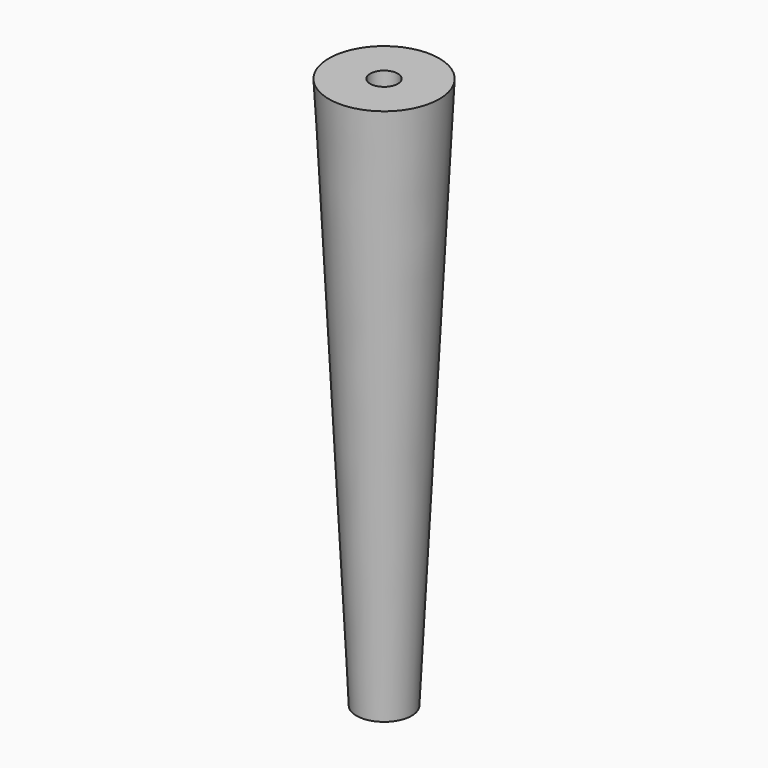
from build123d import *

# Parameters (mm, degrees)
CYLINDER_R     = 1
CYLINDER_DEPTH = 10


with BuildPart() as cylinder:
    # Cylinder → Cylinder (new body)
    with BuildSketch(Plane.XY.offset(31)):
        Circle(CYLINDER_R)
    extrude(amount=CYLINDER_DEPTH)


with BuildPart() as obj1:
    # Cone → Cone (revolve)
    with BuildSketch(Plane.XZ):
        Polygon((0, 0), (2, 0), (4, 40), (0, 40), align=None)
    revolve(axis=Axis((0, 0, 0), (0, 0, 1)))

    # Cut003: cut Cylinder
    add(cylinder.part, mode=Mode.SUBTRACT)


with BuildPart() as obj1_1:
    # Cut003 placement: moved
    add(obj1.part.moved(Location((10, 25, -41.8))))


solid = obj1_1.part
